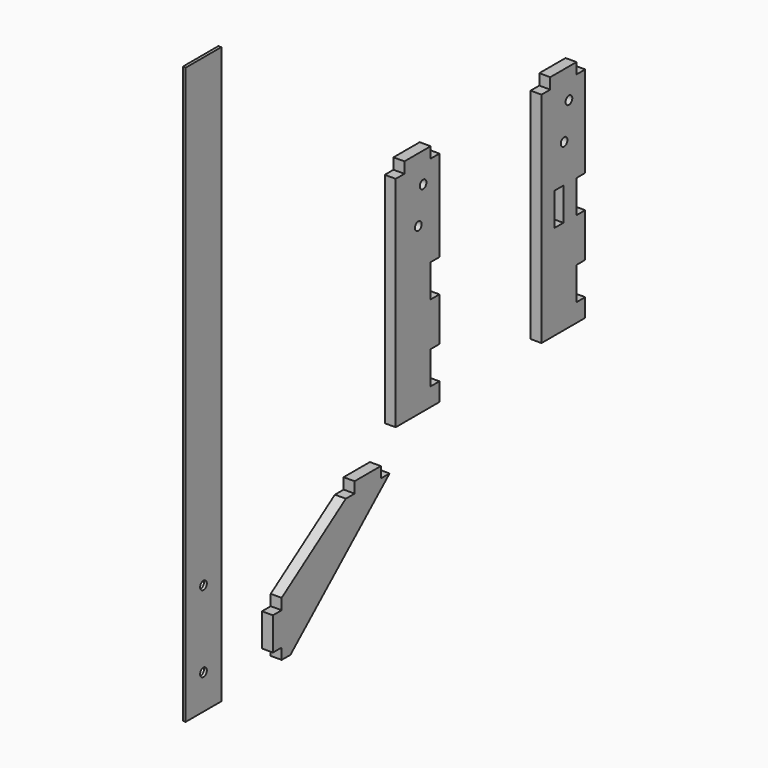
from build123d import *

# Parameters (mm, degrees)
F0_W      = 15
F0_H      = 60
F0_R      = 1.15
F1_DEPTH  = 3
F2_W      = 3
F2_H      = 9
F3_DEPTH  = 25
F4_W      = 9
F4_H      = 3
F5_DEPTH  = 3
F7_W      = 3
F7_H      = 9
F8_DEPTH  = 25
F11_DEPTH = 3
F12_W     = 12.2
F12_H     = 158
F12_R     = 1.15
F13_DEPTH = 0.8


with BuildPart() as f1:
    # F0 (on Right) → F1 (new body)
    with BuildSketch(Plane.YZ):
        with Locations((7.5, 30)):
            Rectangle(F0_W, F0_H)
        with Locations((7.75, 45.449927)):
            Circle(F0_R, mode=Mode.SUBTRACT)
        with Locations((9.407, 54.85)):
            Circle(F0_R, mode=Mode.SUBTRACT)
    extrude(amount=F1_DEPTH)

    # F2 (on face) → F3 (cut)
    with BuildSketch(Plane.YZ.offset(3)):
        with Locations((13.5, 30.5)):
            Rectangle(F2_W, F2_H)
        with Locations((13.5, 9.5)):
            Rectangle(F2_W, F2_H)
    extrude(amount=-F3_DEPTH, mode=Mode.SUBTRACT)

    # F4 (on face) → F5 (join)
    with BuildSketch(Plane.YZ.offset(3)):
        with Locations((7.5, 61.5)):
            Rectangle(F4_W, F4_H)
    extrude(amount=-F5_DEPTH)


with BuildPart() as f6_1:
    # F6: copy of F1
    add(f1.part.moved(Location((0, 50, 0))))

    # F7 (on face) → F8 (cut)
    with BuildSketch(Plane.YZ.offset(3)):
        with Locations((56, 30.5)):
            Rectangle(F7_W, F7_H)
    extrude(amount=-F8_DEPTH, mode=Mode.SUBTRACT)


with BuildPart() as f9_1:
    # F9: copy of F1
    add(f1.part)


with BuildPart() as f11:
    # F10 (on Right) → F11 (new body)
    with BuildSketch(Plane.YZ):
        Polygon((-14.09858, -10.298705), (-17.09858, -10.298705), (-39.09858, -25.298705), (-39.09858, -28.298705), (-42.09858, -28.298705), (-42.09858, -37.298705), (-39.09858, -37.298705), (-39.09858, -40.298705), (-36.09858, -40.298705), (-2.09858, -10.298705), (-5.09858, -10.298705), (-5.09858, -7.298705), (-14.09858, -7.298705), align=None)
    extrude(amount=F11_DEPTH)


with BuildPart() as f13:
    # F12 (on Right) → F13 (new body)
    with BuildSketch(Plane.YZ):
        with Locations((-63.167769, 35.281367)):
            Rectangle(F12_W, F12_H)
        with Locations((-63.167769, -34.218633)):
            Circle(F12_R, mode=Mode.SUBTRACT)
        with Locations((-63.167769, -13.218633)):
            Circle(F12_R, mode=Mode.SUBTRACT)
    extrude(amount=F13_DEPTH)


solid = Compound([f1.part, f6_1.part, f9_1.part, f11.part, f13.part])
